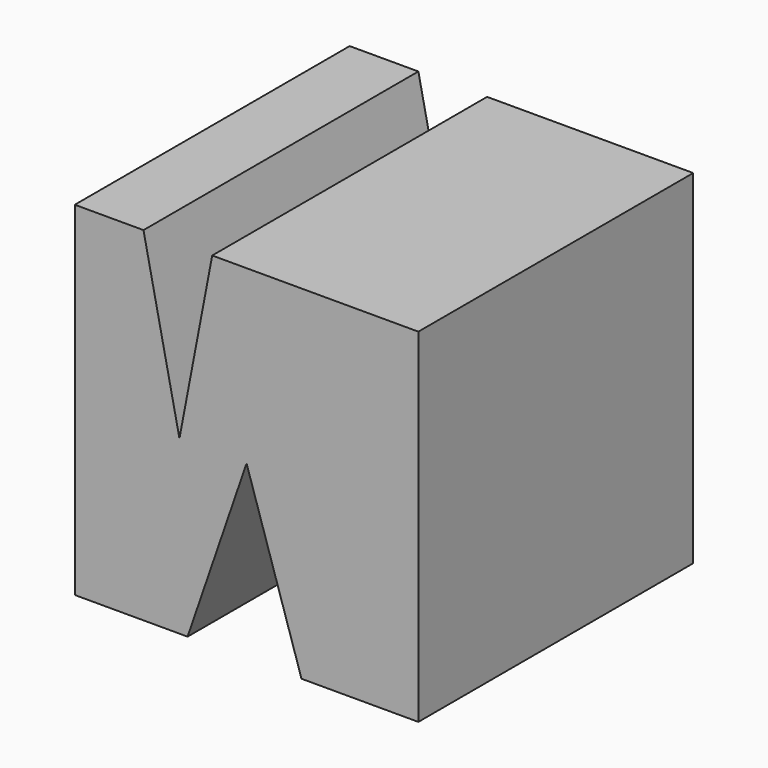
from build123d import *

# Parameters (mm, degrees)
F0_W     = 25.4
F0_H     = 25.4
F1_DEPTH = 25.4
F3_DEPTH = 25.4
F5_DEPTH = 25.4


with BuildPart() as f1:
    # F0 (on Top) → F1 (new body)
    with BuildSketch(Plane.XY):
        Rectangle(F0_W, F0_H)
    extrude(amount=-F1_DEPTH)

    # F2 (on face) → F3 (cut)
    with BuildSketch(Plane.XZ.offset(12.7)):
        Polygon((0, -12.7), (-4.361447, -25.4), (4.060659, -25.4), align=None)
    extrude(amount=-F3_DEPTH, mode=Mode.SUBTRACT)

    # F4 (on face) → F5 (cut)
    with BuildSketch(Plane.XZ.offset(12.7)):
        Polygon((-2.54, 0), (-7.62, 0), (-4.963026, -12.7), align=None)
    extrude(amount=-F5_DEPTH, mode=Mode.SUBTRACT)


solid = f1.part
